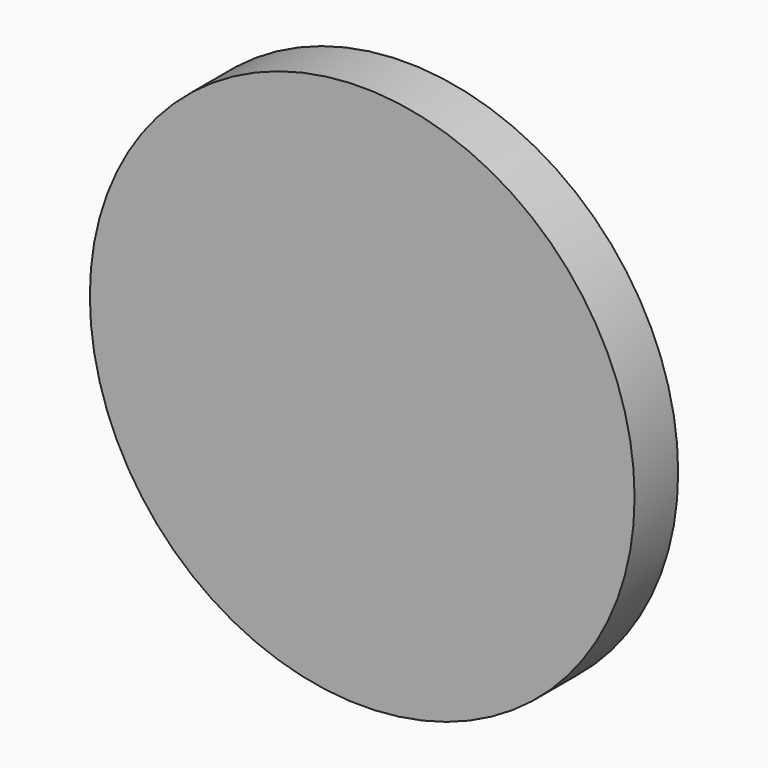
from build123d import *

# Parameters (mm, degrees)
SKETCH_R     = 10
PAD_DEPTH    = 15
SKETCH001_R  = 30
PAD001_DEPTH = 6


with BuildPart() as part:
    # Sketch → Pad (new body)
    with BuildSketch(Plane.XZ):
        Circle(SKETCH_R)
    extrude(amount=PAD_DEPTH)

    # Sketch001 (on Face3 of Pad) → Pad001 (join)
    with BuildSketch(Plane.XZ.offset(15)):
        Circle(SKETCH001_R)
    extrude(amount=PAD001_DEPTH)


solid = part.part
